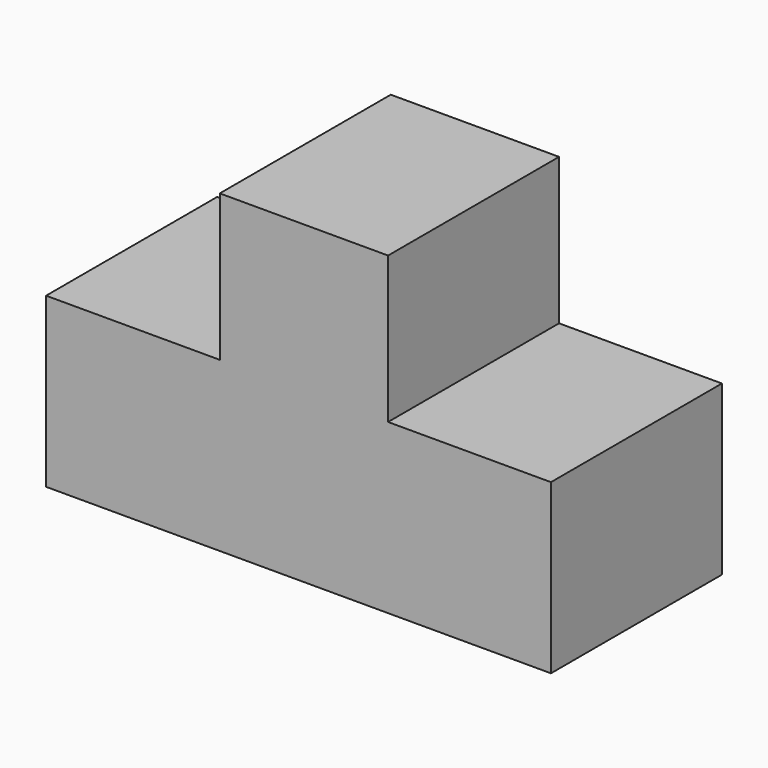
from build123d import *

# Parameters (mm, degrees)
F0_W     = 20
F0_H     = 17.4155889266
F0_H_2   = 0.1131903195
F1_DEPTH = 25.4


with BuildPart() as f1:
    # F0 (on Front) → F1 (new body)
    with BuildSketch(Plane.XZ):
        with Locations((-14.9247993893, 21.6973941681)):
            Rectangle(F0_W, F0_H)
        with Locations((-14.9247993893, 12.933004545)):
            Rectangle(F0_W, F0_H_2)
        Polygon((-24.9247993893, 12.8764093852), (-24.9247993893, 12.9895997047), (-45.5676019192, 12.9895997047), (-45.5676019192, -7.0104002953), (14.4323980808, -7.0104002953), (14.4323980808, 12.9895997047), (-4.9247993893, 12.9895997047), (-4.9247993893, 12.8764093852), align=None)
    extrude(amount=F1_DEPTH)


solid = f1.part
